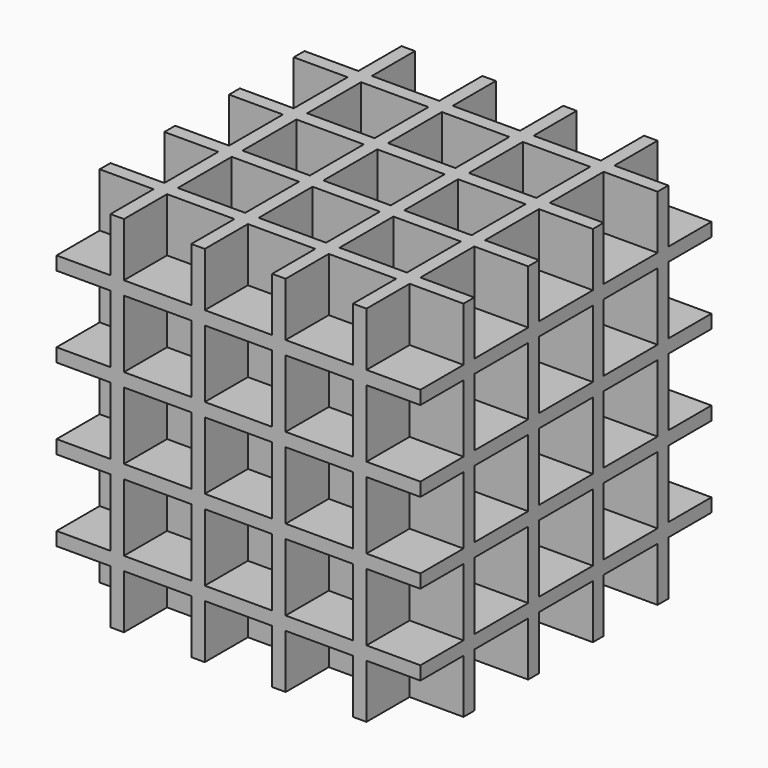
from build123d import *

# Parameters (mm, degrees)
BOX_W         = 10
BOX_H         = 10
BOX_DEPTH     = 10
ARRAY_X_COUNT = 5
ARRAY_X_PITCH = 12
ARRAY_Y_COUNT = 5
ARRAY_Y_PITCH = 12
ARRAY_Z_COUNT = 5
ARRAY_Z_PITCH = 12
BOX001_W      = 54
BOX001_H      = 54
BOX001_DEPTH  = 54


with BuildPart() as array:
    # Box → Box (new body)
    with BuildSketch(Plane.XY):
        with Locations((5, 5)):
            Rectangle(BOX_W, BOX_H)
    extrude(amount=BOX_DEPTH)

    # Array X: Array ×5


with BuildPart() as array_1:
    add(array.part)
    with Locations(*[(i * ARRAY_X_PITCH, 0, 0) for i in range(1, ARRAY_X_COUNT)]):
        add(array.part)

    # Array Y: Array ×5


with BuildPart() as array_2:
    add(array_1.part)
    with Locations(*[(0, i * ARRAY_Y_PITCH, 0) for i in range(1, ARRAY_Y_COUNT)]):
        add(array_1.part)

    # Array Z: Array ×5


with BuildPart() as array_3:
    add(array_2.part)
    with Locations(*[(0, 0, i * ARRAY_Z_PITCH) for i in range(1, ARRAY_Z_COUNT)]):
        add(array_2.part)


with BuildPart() as cut:
    # Box001 → Box001 (new body)
    with BuildSketch(Plane(origin=(2, 2, 2), x_dir=(1, 0, 0), z_dir=(0, 0, 1))):
        with Locations((27, 27)):
            Rectangle(BOX001_W, BOX001_H)
    extrude(amount=BOX001_DEPTH)

    # Cut: cut Array
    add(array_3.part, mode=Mode.SUBTRACT)


solid = cut.part
